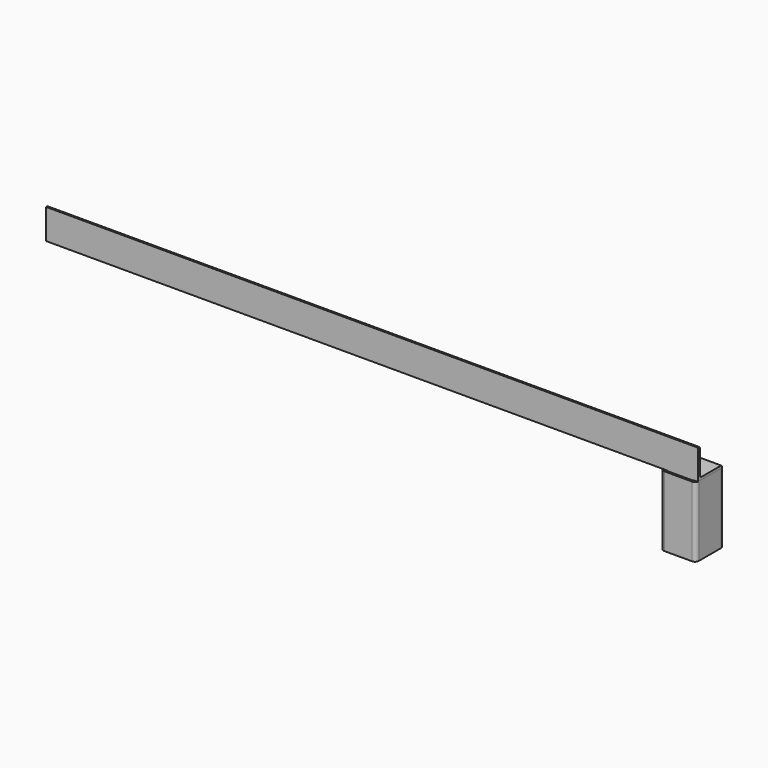
from build123d import *

# Parameters (mm, degrees)
F1_DEPTH = 825.5
F2_R     = 6.35
F3_R     = 3.175
F4_W     = 76.2
F4_H     = 76.2
F5_DEPTH = 152.4
F6_R     = 9.525
F7_T     = -4.7625
F8_W     = 88.9
F8_H     = 6.35
F8_H_2   = 76.2
F9_DEPTH = 177.8
F10_R    = 9.525
F11_T    = -4.7625


with BuildPart() as f1:
    # F0 (on Right) → F1 (new body, symmetric)
    with BuildSketch(Plane.YZ):
        Polygon((0, 76.2), (0, 0), (76.2, 0), (76.2, 6.35), (6.35, 6.35), (6.35, 76.2), align=None)
    extrude(amount=F1_DEPTH, both=True)

    # F2
    f2_edges = [f1.edges().sort_by_distance(p)[0] for p in [
        (0, 6.35, 6.35),
    ]]
    fillet(f2_edges, radius=F2_R)

    # F3
    f3_edges = [f1.edges().sort_by_distance(p)[0] for p in [
        (0, 6.35, 76.2),
        (0, 76.2, 6.35),
    ]]
    fillet(f3_edges, radius=F3_R)


with BuildPart() as f5:
    # F4 (on face) → F5 (new body)
    with BuildSketch(Plane(origin=(0, 0, 0), x_dir=(1, 0, 0), z_dir=(0, 0, -1))):
        with Locations((781.05, -38.1)):
            Rectangle(F4_W, F4_H)
    extrude(amount=F5_DEPTH)

    # F6
    f6_edges = [f5.edges().sort_by_distance(p)[0] for p in [
        (742.95, 76.2, -76.2),
        (742.95, 0, -76.2),
        (819.15, 76.2, -76.2),
        (819.15, 0, -76.2),
    ]]
    fillet(f6_edges, radius=F6_R)

    # F7
    f7_openings = [f5.faces().sort_by_distance(p)[0] for p in [
        (781.05, 38.1, -152.4),
        (781.05, 38.1, 0),
    ]]
    offset(amount=F7_T, openings=f7_openings)


with BuildPart() as f9:
    # F8 (on face) → F9 (new body)
    with BuildSketch(Plane(origin=(0, 0, 0), x_dir=(1, 0, 0), z_dir=(0, 0, -1))):
        with Locations((781.05, 3.175)):
            Rectangle(F8_W, F8_H)
        with Locations((781.05, -38.1)):
            Rectangle(F8_W, F8_H_2)
        with Locations((781.05, -79.375)):
            Rectangle(F8_W, F8_H)
    extrude(amount=F9_DEPTH)

    # F10
    f10_edges = [f9.edges().sort_by_distance(p)[0] for p in [
        (825.5, 82.55, -88.9),
        (736.6, 82.55, -88.9),
        (736.6, -6.35, -88.9),
        (825.5, -6.35, -88.9),
    ]]
    fillet(f10_edges, radius=F10_R)

    # F11
    f11_openings = [f9.faces().sort_by_distance(p)[0] for p in [
        (781.05, 38.1, -177.8),
        (781.05, 38.1, 0),
    ]]
    offset(amount=F11_T, openings=f11_openings)


solid = Compound([f1.part, f5.part, f9.part])
